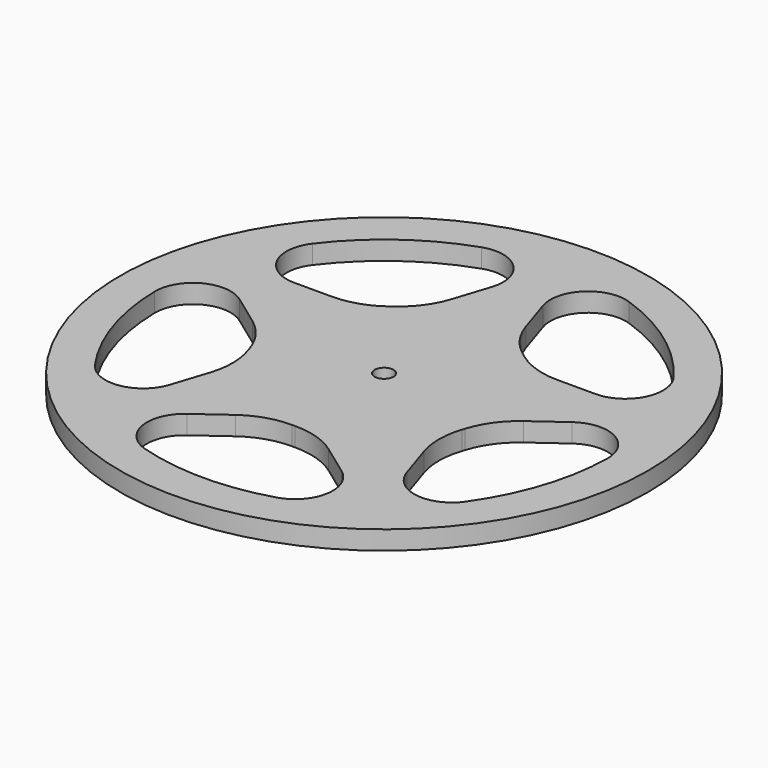
from build123d import *

# Parameters (mm, degrees)
F0_R     = 44.45
F0_R_2   = 1.5875
F1_DEPTH = 3.175
F2_R     = 12.7
F3_R     = 6.35


with BuildPart() as f1:
    # F0 (on Top) → F1 (new body)
    with BuildSketch(Plane.XY):
        Circle(F0_R)
        with BuildLine():
            ThreePointArc((39.2548577101, 12.7546764428), (40.7668362581, 6.4568325445), (41.275, 0))
            ThreePointArc((41.275, 0), (36.7762942859, -18.7384578767), (24.2608362884, -33.3921764428))
            ThreePointArc((24.2608362884, -33.3921764428), (0, -41.275), (-24.2608362884, -33.3921764428))
            ThreePointArc((-24.2608362884, -33.3921764428), (-39.2548577101, -12.7546764428), (-39.2548577101, 12.7546764428))
            ThreePointArc((-39.2548577101, 12.7546764428), (-24.2608362884, 33.3921764428), (0, 41.275))
            ThreePointArc((0, 41.275), (24.2608362884, 33.3921764428), (39.2548577101, 12.7546764428))
        make_face(mode=Mode.SUBTRACT)
        with BuildLine():
            Line((-1.0361992177, 38.0859067265), (0, 41.275))
            ThreePointArc((0, 41.275), (-24.2608362884, 33.3921764428), (-39.2548577101, 12.7546764428))
            Line((-39.2548577101, 12.7546764428), (-35.9016466034, 12.7546764428))
            ThreePointArc((-35.9016466034, 12.7546764428), (-22.3946181123, 30.8235474857), (-1.0361992177, 38.0859067265))
        make_face()
        with BuildLine():
            ThreePointArc((-39.2548577101, 12.7546764428), (-39.2548577101, -12.7546764428), (-24.2608362884, -33.3921764428))
            Line((-24.2608362884, -33.3921764428), (-23.2246370707, -30.2030831693))
            ThreePointArc((-23.2246370707, -30.2030831693), (-36.2352532708, -11.7735474857), (-36.5420529391, 10.7837084065))
            Line((-36.5420529391, 10.7837084065), (-39.2548577101, 12.7546764428))
        make_face()
        with BuildLine():
            ThreePointArc((-24.2608362884, -33.3921764428), (0, -41.275), (24.2608362884, -33.3921764428))
            Line((24.2608362884, -33.3921764428), (21.5480315174, -31.4212084065))
            ThreePointArc((21.5480315174, -31.4212084065), (0, -38.1), (-21.5480315174, -31.4212084065))
            Line((-21.5480315174, -31.4212084065), (-24.2608362884, -33.3921764428))
        make_face()
        with BuildLine():
            ThreePointArc((24.2608362884, -33.3921764428), (36.7762942859, -18.7384578767), (41.275, 0))
            ThreePointArc((41.275, 0), (40.7668362581, 6.4568325445), (39.2548577101, 12.7546764428))
            Line((39.2548577101, 12.7546764428), (36.5420529391, 10.7837084065))
            ThreePointArc((36.5420529391, 10.7837084065), (37.7085018065, 5.447833653), (38.1, 0))
            ThreePointArc((38.1, 0), (34.1794431815, -16.833765586), (23.2246370707, -30.2030831693))
            Line((23.2246370707, -30.2030831693), (24.2608362884, -33.3921764428))
        make_face()
        with BuildLine():
            Line((35.9016466034, 12.7546764428), (39.2548577101, 12.7546764428))
            ThreePointArc((39.2548577101, 12.7546764428), (24.2608362884, 33.3921764428), (0, 41.275))
            Line((0, 41.275), (1.0361992177, 38.0859067265))
            ThreePointArc((1.0361992177, 38.0859067265), (22.3946181123, 30.8235474857), (35.9016466034, 12.7546764428))
        make_face()
        with BuildLine():
            Line((7.7578470137, 17.398801962), (1.0361992177, 38.0859067265))
            ThreePointArc((1.0361992177, 38.0859067265), (0, 38.1), (-1.0361992177, 38.0859067265))
            Line((-1.0361992177, 38.0859067265), (-7.7578470137, 17.398801962))
            ThreePointArc((-7.7578470137, 17.398801962), (0, 19.05), (7.7578470137, 17.398801962))
        make_face()
        with BuildLine():
            Line((-14.1499374147, 12.7546764428), (-35.9016466034, 12.7546764428))
            ThreePointArc((-35.9016466034, 12.7546764428), (-36.2352532708, 11.7735474857), (-36.5420529391, 10.7837084065))
            Line((-36.5420529391, 10.7837084065), (-18.9445505487, -2.0016254668))
            ThreePointArc((-18.9445505487, -2.0016254668), (-18.1176266354, 5.8867737428), (-14.1499374147, 12.7546764428))
        make_face()
        with BuildLine():
            Line((18.9445505487, -2.0016254668), (36.5420529391, 10.7837084065))
            ThreePointArc((36.5420529391, 10.7837084065), (36.2352532708, 11.7735474857), (35.9016466034, 12.7546764428))
            Line((35.9016466034, 12.7546764428), (14.1499374147, 12.7546764428))
            ThreePointArc((14.1499374147, 12.7546764428), (17.7828401521, 6.8317710826), (19.05, 0))
            ThreePointArc((19.05, 0), (19.0236193711, -1.0022005907), (18.9445505487, -2.0016254668))
        make_face()
        with BuildLine():
            Line((3.9505291269, -18.6358745332), (21.5480315174, -31.4212084065))
            ThreePointArc((21.5480315174, -31.4212084065), (22.3946181123, -30.8235474857), (23.2246370707, -30.2030831693))
            Line((23.2246370707, -30.2030831693), (16.5029892747, -9.5159784048))
            ThreePointArc((16.5029892747, -9.5159784048), (11.1973090562, -15.4117737428), (3.9505291269, -18.6358745332))
        make_face()
        with BuildLine():
            Line((-16.5029892747, -9.5159784048), (-23.2246370707, -30.2030831693))
            ThreePointArc((-23.2246370707, -30.2030831693), (-22.3946181123, -30.8235474857), (-21.5480315174, -31.4212084065))
            Line((-21.5480315174, -31.4212084065), (-3.9505291269, -18.6358745332))
            ThreePointArc((-3.9505291269, -18.6358745332), (-11.1973090562, -15.4117737428), (-16.5029892747, -9.5159784048))
        make_face()
        with BuildLine():
            Line((-35.9016466034, 12.7546764428), (-39.2548577101, 12.7546764428))
            Line((-39.2548577101, 12.7546764428), (-36.5420529391, 10.7837084065))
            ThreePointArc((-36.5420529391, 10.7837084065), (-36.2352532708, 11.7735474857), (-35.9016466034, 12.7546764428))
        make_face()
        with BuildLine():
            Line((-23.2246370707, -30.2030831693), (-24.2608362884, -33.3921764428))
            Line((-24.2608362884, -33.3921764428), (-21.5480315174, -31.4212084065))
            ThreePointArc((-21.5480315174, -31.4212084065), (-22.3946181123, -30.8235474857), (-23.2246370707, -30.2030831693))
        make_face()
        with BuildLine():
            Line((21.5480315174, -31.4212084065), (24.2608362884, -33.3921764428))
            Line((24.2608362884, -33.3921764428), (23.2246370707, -30.2030831693))
            ThreePointArc((23.2246370707, -30.2030831693), (22.3946181123, -30.8235474857), (21.5480315174, -31.4212084065))
        make_face()
        with BuildLine():
            Line((36.5420529391, 10.7837084065), (39.2548577101, 12.7546764428))
            Line((39.2548577101, 12.7546764428), (35.9016466034, 12.7546764428))
            ThreePointArc((35.9016466034, 12.7546764428), (36.2352532708, 11.7735474857), (36.5420529391, 10.7837084065))
        make_face()
        with BuildLine():
            Line((1.0361992177, 38.0859067265), (0, 41.275))
            Line((0, 41.275), (-1.0361992177, 38.0859067265))
            ThreePointArc((-1.0361992177, 38.0859067265), (0, 38.1), (1.0361992177, 38.0859067265))
        make_face()
        with BuildLine():
            ThreePointArc((16.5029892747, -9.5159784048), (18.1176266354, -5.8867737428), (18.9445505487, -2.0016254668))
            ThreePointArc((18.9445505487, -2.0016254668), (19.0236193711, -1.0022005907), (19.05, 0))
            ThreePointArc((19.05, 0), (17.7828401521, 6.8317710826), (14.1499374147, 12.7546764428))
            ThreePointArc((14.1499374147, 12.7546764428), (11.1973090562, 15.4117737428), (7.7578470137, 17.398801962))
            ThreePointArc((7.7578470137, 17.398801962), (0, 19.05), (-7.7578470137, 17.398801962))
            ThreePointArc((-7.7578470137, 17.398801962), (-11.1973090562, 15.4117737428), (-14.1499374147, 12.7546764428))
            ThreePointArc((-14.1499374147, 12.7546764428), (-18.1176266354, 5.8867737428), (-18.9445505487, -2.0016254668))
            ThreePointArc((-18.9445505487, -2.0016254668), (-18.1176266354, -5.8867737428), (-16.5029892747, -9.5159784048))
            ThreePointArc((-16.5029892747, -9.5159784048), (-11.1973090562, -15.4117737428), (-3.9505291269, -18.6358745332))
            ThreePointArc((-3.9505291269, -18.6358745332), (0, -19.05), (3.9505291269, -18.6358745332))
            ThreePointArc((3.9505291269, -18.6358745332), (11.1973090562, -15.4117737428), (16.5029892747, -9.5159784048))
        make_face()
        Circle(F0_R_2, mode=Mode.SUBTRACT)
    extrude(amount=F1_DEPTH)

    # F2
    f2_edges = [f1.edges().sort_by_distance(p)[0] for p in [
        (-7.757847, 17.398802, 1.5875),
        (7.757847, 17.398802, 1.5875),
        (16.502989, -9.515978, 1.5875),
        (18.944551, -2.001625, 1.5875),
        (14.149937, 12.754676, 1.5875),
        (-14.149937, 12.754676, 1.5875),
        (-16.502989, -9.515978, 1.5875),
        (-18.944551, -2.001625, 1.5875),
        (-3.950529, -18.635875, 1.5875),
        (3.950529, -18.635875, 1.5875),
    ]]
    fillet(f2_edges, radius=F2_R)

    # F3
    f3_edges = [f1.edges().sort_by_distance(p)[0] for p in [
        (-21.548032, -31.421208, 1.5875),
        (21.548032, -31.421208, 1.5875),
        (-36.542053, 10.783708, 1.5875),
        (-23.224637, -30.203083, 1.5875),
        (-35.901647, 12.754676, 1.5875),
        (1.036199, 38.085907, 1.5875),
        (23.224637, -30.203083, 1.5875),
        (-1.036199, 38.085907, 1.5875),
        (35.901647, 12.754676, 1.5875),
        (36.542053, 10.783708, 1.5875),
    ]]
    fillet(f3_edges, radius=F3_R)


solid = f1.part
